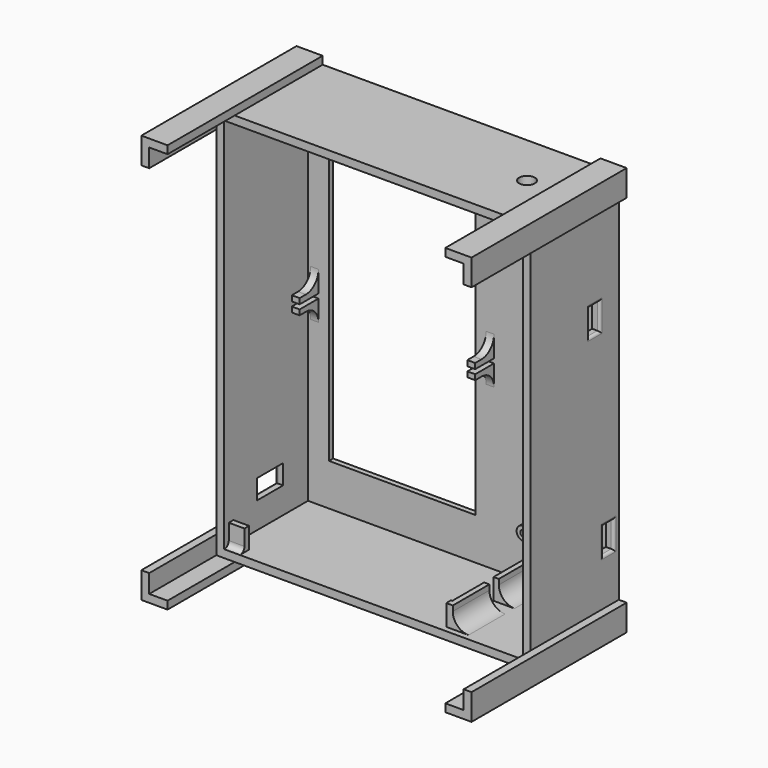
from build123d import *

# Parameters (mm, degrees)
BOX053_W                  = 10
BOX053_H                  = 5
BOX053_DEPTH              = 10
BOX051_W                  = 29.6
BOX051_H                  = 2
BOX051_DEPTH              = 99.5
BOX046_W                  = 10
BOX046_H                  = 5
BOX046_DEPTH              = 10
CYLINDER005_R             = 3
CYLINDER005_DEPTH         = 10
BOX060_W                  = 56
BOX060_H                  = 10
BOX060_DEPTH              = 122
BOX050_W                  = 4
BOX050_H                  = 4.5
BOX050_DEPTH              = 8
BOX052_W                  = 17
BOX052_H                  = 7.5
BOX052_DEPTH              = 12.5
BOX044_W                  = 48.5
BOX044_H                  = 4.6
BOX044_DEPTH              = 25.5
FUSION016_PLACEMENT_ANGLE = 90
BOX048_W                  = 83.5
BOX048_H                  = 35.6
BOX048_DEPTH              = 8
BOX042_W                  = 114
BOX042_H                  = 50
BOX042_DEPTH              = 144
BOX041_W                  = 120
BOX041_H                  = 42
BOX041_DEPTH              = 150
BOX056_W                  = 72
BOX056_H                  = 18
BOX056_DEPTH              = 1.7
BOX047_W                  = 3
BOX047_H                  = 10
BOX047_DEPTH              = 5.8
ARRAY008_X_COUNT          = 2
ARRAY008_X_PITCH          = 67
BOX049_W                  = 77
BOX049_H                  = 10
BOX049_DEPTH              = 10
BOX055_W                  = 85.5
BOX055_H                  = 37.8
BOX055_DEPTH              = 8
CYLINDER004_R             = 1.2
CYLINDER004_DEPTH         = 4
CYLINDER003_R             = 2.6
CYLINDER003_DEPTH         = 4
ARRAY007_X_COUNT          = 2
ARRAY007_X_PITCH          = 25
ARRAY007_Z_COUNT          = 2
ARRAY007_Z_PITCH          = 95
BOX057_W                  = 10
BOX057_H                  = 77
BOX057_DEPTH              = 10
BOX045_W                  = 10
BOX045_H                  = 74
BOX045_DEPTH              = 10
CUT029_PLACEMENT_ANGLE    = 90
BOX058_W                  = 10
BOX058_H                  = 77
BOX058_DEPTH              = 10
BOX061_W                  = 10
BOX061_H                  = 74
BOX061_DEPTH              = 10
CUT028_PLACEMENT_ANGLE    = 90
BOX062_W                  = 10
BOX062_H                  = 77
BOX062_DEPTH              = 10
BOX059_W                  = 10
BOX059_H                  = 74
BOX059_DEPTH              = 10
CUT027_PLACEMENT_ANGLE    = 180
BOX054_W                  = 10
BOX054_H                  = 77
BOX054_DEPTH              = 10
BOX043_W                  = 10
BOX043_H                  = 74
BOX043_DEPTH              = 10
FILLET003_1_R             = 6
FILLET003_2_R             = 2
FILLET003_3_R             = 1


with BuildPart() as on_off001:
    # Box053 → Box053 (new body)
    with BuildSketch(Plane(origin=(26, -6, 81.5), x_dir=(1, 0, 0), z_dir=(0, 0, 1))):
        with Locations((5, 2.5)):
            Rectangle(BOX053_W, BOX053_H)
    extrude(amount=BOX053_DEPTH)


with BuildPart() as obj1:
    # Box051 → Box051 (new body)
    with BuildSketch(Plane.XY):
        with Locations((14.8, 1)):
            Rectangle(BOX051_W, BOX051_H)
    extrude(amount=BOX051_DEPTH)


with BuildPart() as obj2:
    # Box046 → Box046 (new body)
    with BuildSketch(Plane(origin=(26, 0.6, 5.5), x_dir=(1, 0, 0), z_dir=(0, 0, 1))):
        with Locations((5, 2.5)):
            Rectangle(BOX046_W, BOX046_H)
    extrude(amount=BOX046_DEPTH)

    # Fusion017: union on_off001, obj1
    add(on_off001.part)
    add(obj1.part)


with BuildPart() as obj2_1:
    # Fusion017 placement: moved
    add(obj2.part.moved(Location((85.8, 76, 19.23))))


with BuildPart() as obj3:
    # Cylinder005 → Cylinder005 (new body)
    with BuildSketch(Plane(origin=(101.22, 63.68, 142.21), x_dir=(1, 0, 0), z_dir=(0, 0, 1))):
        Circle(CYLINDER005_R)
    extrude(amount=CYLINDER005_DEPTH)


with BuildPart() as obj4:
    # Box060 → Box060 (new body)
    with BuildSketch(Plane(origin=(11, 81, 19), x_dir=(1, 0, 0), z_dir=(0, 0, 1))):
        with Locations((28, 5)):
            Rectangle(BOX060_W, BOX060_H)
    extrude(amount=BOX060_DEPTH)


with BuildPart() as obj5:
    # Box050 → Box050 (new body)
    with BuildSketch(Plane(origin=(83, 15.25, 0), x_dir=(1, 0, 0), z_dir=(0, 0, 1))):
        with Locations((2, 2.25)):
            Rectangle(BOX050_W, BOX050_H)
    extrude(amount=BOX050_DEPTH)


with BuildPart() as cubo029:
    # Box052 → Box052 (new body)
    with BuildSketch(Plane(origin=(-7, 2.4, 6.55), x_dir=(1, 0, 0), z_dir=(0, 0, 1))):
        with Locations((8.5, 3.75)):
            Rectangle(BOX052_W, BOX052_H)
    extrude(amount=BOX052_DEPTH)


with BuildPart() as obj6:
    # Box044 → Box044 (new body)
    with BuildSketch(Plane(origin=(0, 0.4, 0), x_dir=(1, 0, 0), z_dir=(0, 0, 1))):
        with Locations((24.25, 2.3)):
            Rectangle(BOX044_W, BOX044_H)
    extrude(amount=BOX044_DEPTH)

    # Fusion016: union Cubo029
    add(cubo029.part)


with BuildPart() as obj6_1:
    # Fusion016 placement: moved
    add(obj6.part.moved(Location((0, 30.25, 7.6))).rotate(Axis((0, 30.25, 7.6), (1, 0, 0)), FUSION016_PLACEMENT_ANGLE))


with BuildPart() as fusion013:
    # Box048 → Box048 (new body)
    with BuildSketch(Plane.XY):
        with Locations((41.75, 17.8)):
            Rectangle(BOX048_W, BOX048_H)
    extrude(amount=BOX048_DEPTH)

    # Fusion014: union obj5, obj6
    add(obj5.part)
    add(obj6_1.part)


with BuildPart() as fusion013_1:
    # Fusion014 placement: moved
    add(fusion013.part.moved(Location((3, 46.4, 3))))

    # Fusion013: union obj2, obj3, obj4
    add(obj2_1.part)
    add(obj3.part)
    add(obj4.part)


with BuildPart() as cubo023:
    # Box042 → Box042 (new body)
    with BuildSketch(Plane(origin=(3, 32, 3), x_dir=(1, 0, 0), z_dir=(0, 0, 1))):
        with Locations((57, 25)):
            Rectangle(BOX042_W, BOX042_H)
    extrude(amount=BOX042_DEPTH)


with BuildPart() as cut024:
    # Box041 → Box041 (new body)
    with BuildSketch(Plane(origin=(0, 42, 0), x_dir=(1, 0, 0), z_dir=(0, 0, 1))):
        with Locations((60, 21)):
            Rectangle(BOX041_W, BOX041_H)
    extrude(amount=BOX041_DEPTH)

    # Cut024: cut Cubo023
    add(cubo023.part, mode=Mode.SUBTRACT)


with BuildPart() as leds002:
    # Box056 → Box056 (new body)
    with BuildSketch(Plane(origin=(-1, 0, 2), x_dir=(1, 0, 0), z_dir=(0, 0, 1))):
        with Locations((36, 9)):
            Rectangle(BOX056_W, BOX056_H)
    extrude(amount=BOX056_DEPTH)


with BuildPart() as soporte_placa_leds001:
    # Box047 → Box047 (new body)
    with BuildSketch(Plane(origin=(0, 8, 0), x_dir=(1, 0, 0), z_dir=(0, 0, 1))):
        with Locations((1.5, 5)):
            Rectangle(BOX047_W, BOX047_H)
    extrude(amount=BOX047_DEPTH)

    # Array008 X: soporte_placa_leds001 ×2


with BuildPart() as soporte_placa_leds001_1:
    add(soporte_placa_leds001.part)
    with Locations(*[(i * ARRAY008_X_PITCH, 0, 0) for i in range(1, ARRAY008_X_COUNT)]):
        add(soporte_placa_leds001.part)

    # Cut023: cut leds002
    add(leds002.part, mode=Mode.SUBTRACT)


with BuildPart() as soporte_placa_leds001_2:
    # Cut023 placement: moved
    add(soporte_placa_leds001_1.part.moved(Location((4, 65, 70.25))))


with BuildPart() as cubo028:
    # Box049 → Box049 (new body)
    with BuildSketch(Plane(origin=(9, 43, 3), x_dir=(1, 0, 0), z_dir=(0, 0, 1))):
        with Locations((38.5, 5)):
            Rectangle(BOX049_W, BOX049_H)
    extrude(amount=BOX049_DEPTH)


with BuildPart() as baseproto001:
    # Box055 → Box055 (new body)
    with BuildSketch(Plane(origin=(3, 44.2, 3), x_dir=(1, 0, 0), z_dir=(0, 0, 1))):
        with Locations((42.75, 18.9)):
            Rectangle(BOX055_W, BOX055_H)
    extrude(amount=BOX055_DEPTH)

    # Cut030: cut Cubo028
    add(cubo028.part, mode=Mode.SUBTRACT)


with BuildPart() as cilindro004:
    # Cylinder004 → Cylinder004 (new body)
    with BuildSketch(Plane(origin=(2.6, 0, 2.6), x_dir=(1, 0, 0), z_dir=(0, -1, 0))):
        Circle(CYLINDER004_R)
    extrude(amount=CYLINDER004_DEPTH)


with BuildPart() as obj7:
    # Cylinder003 → Cylinder003 (new body)
    with BuildSketch(Plane(origin=(2.6, 0, 2.6), x_dir=(1, 0, 0), z_dir=(0, -1, 0))):
        Circle(CYLINDER003_R)
    extrude(amount=CYLINDER003_DEPTH)

    # Cut025: cut Cilindro004
    add(cilindro004.part, mode=Mode.SUBTRACT)


with BuildPart() as obj7_1:
    # Cut025 placement: moved
    add(obj7.part.moved(Location((31.199794, 82, -20.171414))))

    # Array007 X: obj7_2


with BuildPart() as obj7_2:
    add(obj7_1.part)
    with Locations(*[(i * ARRAY007_X_PITCH, 0, 0) for i in range(1, ARRAY007_X_COUNT)]):
        add(obj7_1.part)

    # Array007 Z: obj7_2


with BuildPart() as obj7_3:
    add(obj7_2.part)
    with Locations(*[(0, 0, i * ARRAY007_Z_PITCH) for i in range(1, ARRAY007_Z_COUNT)]):
        add(obj7_2.part)


with BuildPart() as obj7_4:
    # Array007 placement: moved
    add(obj7_3.part.moved(Location((54.6, 0, 39))))


with BuildPart() as cubo031:
    # Box057 → Box057 (new body)
    with BuildSketch(Plane(origin=(0, 10, 140), x_dir=(1, 0, 0), z_dir=(0, 0, 1))):
        with Locations((5, 38.5)):
            Rectangle(BOX057_W, BOX057_H)
    extrude(amount=BOX057_DEPTH)


with BuildPart() as cut029:
    # Box045 → Box045 (new body)
    with BuildSketch(Plane(origin=(-3, 10, 143), x_dir=(1, 0, 0), z_dir=(0, 0, 1))):
        with Locations((5, 37)):
            Rectangle(BOX045_W, BOX045_H)
    extrude(amount=BOX045_DEPTH)

    # Cut029: cut Cubo031
    add(cubo031.part, mode=Mode.SUBTRACT)


with BuildPart() as cut029_1:
    # Cut029 placement: moved
    add(cut029.part.moved(Location((-30, 0, 150))).rotate(Axis((-30, 0, 150), (0, 1, 0)), CUT029_PLACEMENT_ANGLE))


with BuildPart() as cubo032:
    # Box058 → Box058 (new body)
    with BuildSketch(Plane(origin=(0, 10, 140), x_dir=(1, 0, 0), z_dir=(0, 0, 1))):
        with Locations((5, 38.5)):
            Rectangle(BOX058_W, BOX058_H)
    extrude(amount=BOX058_DEPTH)


with BuildPart() as cut028:
    # Box061 → Box061 (new body)
    with BuildSketch(Plane(origin=(-3, 10, 143), x_dir=(1, 0, 0), z_dir=(0, 0, 1))):
        with Locations((5, 37)):
            Rectangle(BOX061_W, BOX061_H)
    extrude(amount=BOX061_DEPTH)

    # Cut028: cut Cubo032
    add(cubo032.part, mode=Mode.SUBTRACT)


with BuildPart() as cut028_1:
    # Cut028 placement: moved
    add(cut028.part.moved(Location((150, 0, 0))).rotate(Axis((150, 0, 0), (0, -1, 0)), CUT028_PLACEMENT_ANGLE))


with BuildPart() as cubo035:
    # Box062 → Box062 (new body)
    with BuildSketch(Plane(origin=(0, 10, 140), x_dir=(1, 0, 0), z_dir=(0, 0, 1))):
        with Locations((5, 38.5)):
            Rectangle(BOX062_W, BOX062_H)
    extrude(amount=BOX062_DEPTH)


with BuildPart() as cut027:
    # Box059 → Box059 (new body)
    with BuildSketch(Plane(origin=(-3, 10, 143), x_dir=(1, 0, 0), z_dir=(0, 0, 1))):
        with Locations((5, 37)):
            Rectangle(BOX059_W, BOX059_H)
    extrude(amount=BOX059_DEPTH)

    # Cut027: cut Cubo035
    add(cubo035.part, mode=Mode.SUBTRACT)


with BuildPart() as cut027_1:
    # Cut027 placement: moved
    add(cut027.part.moved(Location((120, 0, 150))).rotate(Axis((120, 0, 150), (0, 1, 0)), CUT027_PLACEMENT_ANGLE))


with BuildPart() as cubo030:
    # Box054 → Box054 (new body)
    with BuildSketch(Plane(origin=(0, 10, 140), x_dir=(1, 0, 0), z_dir=(0, 0, 1))):
        with Locations((5, 38.5)):
            Rectangle(BOX054_W, BOX054_H)
    extrude(amount=BOX054_DEPTH)


with BuildPart() as closet_bottom_generic:
    # Box043 → Box043 (new body)
    with BuildSketch(Plane(origin=(-3, 10, 143), x_dir=(1, 0, 0), z_dir=(0, 0, 1))):
        with Locations((5, 37)):
            Rectangle(BOX043_W, BOX043_H)
    extrude(amount=BOX043_DEPTH)

    # Cut026: cut Cubo030
    add(cubo030.part, mode=Mode.SUBTRACT)

    # Fusion015: union Cut029, Cut028, Cut027
    add(cut029_1.part)
    add(cut028_1.part)
    add(cut027_1.part)

    # Fusion012: union Cut024, soporte_placa_leds001, baseProto001, obj7
    add(cut024.part)
    add(soporte_placa_leds001_2.part)
    add(baseproto001.part)
    add(obj7_4.part)

    # Cut022: cut Fusion013
    add(fusion013_1.part, mode=Mode.SUBTRACT)

    # Fillet003 1
    fillet003_1_edges = [closet_bottom_generic.edges().sort_by_distance(p)[0] for p in [
        (88.5, 52.925, 3),
        (88.5, 74.075, 3),
        (5.5, 82, 70.25),
        (5.5, 82, 76.05),
        (72.5, 82, 70.25),
        (72.5, 82, 76.05),
    ]]
    fillet(fillet003_1_edges, radius=FILLET003_1_R)

    # Fillet003 2
    fillet003_2_edges = [closet_bottom_generic.edges().sort_by_distance(p)[0] for p in [
        (6, 44.2, 3),
    ]]
    fillet(fillet003_2_edges, radius=FILLET003_2_R)

    # Fillet003 3
    fillet003_3_edges = [closet_bottom_generic.edges().sort_by_distance(p)[0] for p in [
        (0, 57.6, 16.75),
        (0, 63.85, 13),
        (0, 70.1, 16.75),
        (0, 63.85, 20.5),
        (120, 79.1, 34.73),
        (120, 76.6, 29.73),
        (120, 79.1, 24.73),
        (120, 81.6, 29.73),
        (120, 72.5, 100.73),
        (120, 75, 105.73),
        (120, 72.5, 110.73),
        (120, 70, 105.73),
        (85.799794, 82, 21.428586),
        (110.799794, 82, 21.428586),
        (85.799794, 82, 116.428586),
        (110.799794, 82, 116.428586),
    ]]
    fillet(fillet003_3_edges, radius=FILLET003_3_R)


solid = closet_bottom_generic.part
